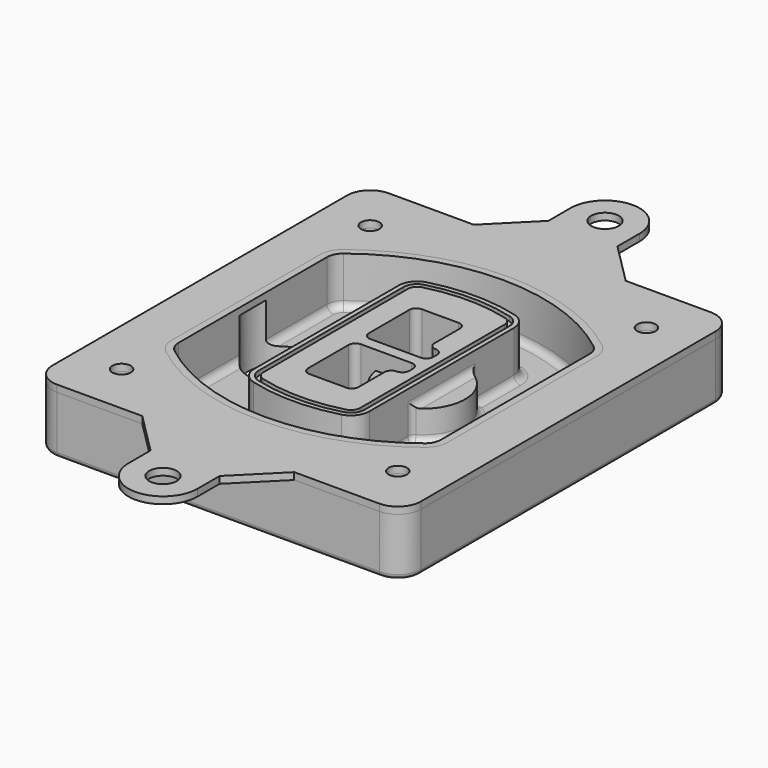
from build123d import *

# Parameters (mm, degrees)
F0_R      = 4
F1_DEPTH  = 25
F2_DEPTH  = 3
F3_DEPTH  = 18
F5_DEPTH  = 21
F6_DEPTH  = 2
F8_DEPTH  = 20
F9_DEPTH  = 16
F10_DEPTH = 25
F7_R      = 6
F7_R_2    = 4
F11_DEPTH = 6
F13_DEPTH = 9
F14_R     = 3
F15_R     = 2
F16_R     = 4
F16_R_2   = 6
F17_DEPTH = 3


with BuildPart() as f1:
    # F0 (on Top) → F1 (new body)
    with BuildSketch(Plane.XY):
        with BuildLine():
            ThreePointArc((-80, -80), (-77.0710678119, -87.0710678119), (-70, -90))
            Line((-70, -90), (70, -90))
            ThreePointArc((70, -90), (77.0710678119, -87.0710678119), (80, -80))
            Line((80, -80), (80, 80))
            ThreePointArc((80, 80), (77.0710678119, 87.0710678119), (70, 90))
            Line((70, 90), (-70, 90))
            ThreePointArc((-70, 90), (-77.0710678119, 87.0710678119), (-80, 80))
            Line((-80, 80), (-80, -80))
        make_face()
        with Locations((-60, -67.5)):
            Circle(F0_R, mode=Mode.SUBTRACT)
        with Locations((60, -67.5)):
            Circle(F0_R, mode=Mode.SUBTRACT)
        with Locations((-60, 67.5)):
            Circle(F0_R, mode=Mode.SUBTRACT)
        with BuildLine():
            ThreePointArc((-64, 40.2934422872), (-62.5820384798, 46.4328484224), (-58.6153846154, 51.3286200352))
            ThreePointArc((-58.6153846154, 51.3286200352), (0, 71.5), (58.6153846154, 51.3286200352))
            ThreePointArc((58.6153846154, 51.3286200352), (62.5820384798, 46.4328484224), (64, 40.2934422872))
            Line((64, 40.2934422872), (64, -40.2934422872))
            ThreePointArc((64, -40.2934422872), (62.5820384798, -46.4328484224), (58.6153846154, -51.3286200352))
            ThreePointArc((58.6153846154, -51.3286200352), (0, -71.5), (-58.6153846154, -51.3286200352))
            ThreePointArc((-58.6153846154, -51.3286200352), (-62.5820384798, -46.4328484224), (-64, -40.2934422872))
            Line((-64, -40.2934422872), (-64, 40.2934422872))
        make_face(mode=Mode.SUBTRACT)
        with Locations((60, 67.5)):
            Circle(F0_R, mode=Mode.SUBTRACT)
        with BuildLine():
            ThreePointArc((58.6153846154, 51.3286200352), (0, 71.5), (-58.6153846154, 51.3286200352))
            ThreePointArc((-58.6153846154, 51.3286200352), (-62.5820384798, 46.4328484224), (-64, 40.2934422872))
            Line((-64, 40.2934422872), (-64, -40.2934422872))
            ThreePointArc((-64, -40.2934422872), (-62.5820384798, -46.4328484224), (-58.6153846154, -51.3286200352))
            ThreePointArc((-58.6153846154, -51.3286200352), (0, -71.5), (58.6153846154, -51.3286200352))
            ThreePointArc((58.6153846154, -51.3286200352), (62.5820384798, -46.4328484224), (64, -40.2934422872))
            Line((64, -40.2934422872), (64, 40.2934422872))
            ThreePointArc((64, 40.2934422872), (62.5820384798, 46.4328484224), (58.6153846154, 51.3286200352))
        make_face()
        with BuildLine():
            Line((-60, -40.2934422872), (-60, 40.2934422872))
            ThreePointArc((-60, 40.2934422872), (-58.9871703427, 44.6787323838), (-56.1538461538, 48.1757121072))
            ThreePointArc((-56.1538461538, 48.1757121072), (0, 67.5), (56.1538461538, 48.1757121072))
            ThreePointArc((56.1538461538, 48.1757121072), (58.9871703427, 44.6787323838), (60, 40.2934422872))
            Line((60, 40.2934422872), (60, -40.2934422872))
            ThreePointArc((60, -40.2934422872), (58.9871703427, -44.6787323838), (56.1538461538, -48.1757121072))
            ThreePointArc((56.1538461538, -48.1757121072), (0, -67.5), (-56.1538461538, -48.1757121072))
            ThreePointArc((-56.1538461538, -48.1757121072), (-58.9871703427, -44.6787323838), (-60, -40.2934422872))
        make_face(mode=Mode.SUBTRACT)
        with BuildLine():
            ThreePointArc((-56.1538461538, 48.1757121072), (-58.9871703427, 44.6787323838), (-60, 40.2934422872))
            Line((-60, 40.2934422872), (-60, -40.2934422872))
            ThreePointArc((-60, -40.2934422872), (-58.9871703427, -44.6787323838), (-56.1538461538, -48.1757121072))
            ThreePointArc((-56.1538461538, -48.1757121072), (0, -67.5), (56.1538461538, -48.1757121072))
            ThreePointArc((56.1538461538, -48.1757121072), (58.9871703427, -44.6787323838), (60, -40.2934422872))
            Line((60, -40.2934422872), (60, 40.2934422872))
            ThreePointArc((60, 40.2934422872), (58.9871703427, 44.6787323838), (56.1538461538, 48.1757121072))
            ThreePointArc((56.1538461538, 48.1757121072), (0, 67.5), (-56.1538461538, 48.1757121072))
        make_face()
        with BuildLine():
            ThreePointArc((54.3076923077, 45.8110311612), (56.2910192399, 43.3631453548), (57, 40.2934422872))
            Line((57, 40.2934422872), (57, -40.2934422872))
            ThreePointArc((57, -40.2934422872), (56.2910192399, -43.3631453548), (54.3076923077, -45.8110311612))
            ThreePointArc((54.3076923077, -45.8110311612), (0, -64.5), (-54.3076923077, -45.8110311612))
            ThreePointArc((-54.3076923077, -45.8110311612), (-56.2910192399, -43.3631453548), (-57, -40.2934422872))
            Line((-57, -40.2934422872), (-57, 40.2934422872))
            ThreePointArc((-57, 40.2934422872), (-56.2910192399, 43.3631453548), (-54.3076923077, 45.8110311612))
            ThreePointArc((-54.3076923077, 45.8110311612), (0, 64.5), (54.3076923077, 45.8110311612))
        make_face(mode=Mode.SUBTRACT)
        with BuildLine():
            Line((57, -40.2934422872), (57, 40.2934422872))
            ThreePointArc((57, 40.2934422872), (56.2910192399, 43.3631453548), (54.3076923077, 45.8110311612))
            ThreePointArc((54.3076923077, 45.8110311612), (0, 64.5), (-54.3076923077, 45.8110311612))
            ThreePointArc((-54.3076923077, 45.8110311612), (-56.2910192399, 43.3631453548), (-57, 40.2934422872))
            Line((-57, 40.2934422872), (-57, -40.2934422872))
            ThreePointArc((-57, -40.2934422872), (-56.2910192399, -43.3631453548), (-54.3076923077, -45.8110311612))
            ThreePointArc((-54.3076923077, -45.8110311612), (0, -64.5), (54.3076923077, -45.8110311612))
            ThreePointArc((54.3076923077, -45.8110311612), (56.2910192399, -43.3631453548), (57, -40.2934422872))
        make_face()
    extrude(amount=-F1_DEPTH)

    # F0 (on Top) → F2 (join)
    with BuildSketch(Plane.XY):
        with BuildLine():
            ThreePointArc((-56.1538461538, 48.1757121072), (-58.9871703427, 44.6787323838), (-60, 40.2934422872))
            Line((-60, 40.2934422872), (-60, -40.2934422872))
            ThreePointArc((-60, -40.2934422872), (-58.9871703427, -44.6787323838), (-56.1538461538, -48.1757121072))
            ThreePointArc((-56.1538461538, -48.1757121072), (0, -67.5), (56.1538461538, -48.1757121072))
            ThreePointArc((56.1538461538, -48.1757121072), (58.9871703427, -44.6787323838), (60, -40.2934422872))
            Line((60, -40.2934422872), (60, 40.2934422872))
            ThreePointArc((60, 40.2934422872), (58.9871703427, 44.6787323838), (56.1538461538, 48.1757121072))
            ThreePointArc((56.1538461538, 48.1757121072), (0, 67.5), (-56.1538461538, 48.1757121072))
        make_face()
        with BuildLine():
            ThreePointArc((54.3076923077, 45.8110311612), (56.2910192399, 43.3631453548), (57, 40.2934422872))
            Line((57, 40.2934422872), (57, -40.2934422872))
            ThreePointArc((57, -40.2934422872), (56.2910192399, -43.3631453548), (54.3076923077, -45.8110311612))
            ThreePointArc((54.3076923077, -45.8110311612), (0, -64.5), (-54.3076923077, -45.8110311612))
            ThreePointArc((-54.3076923077, -45.8110311612), (-56.2910192399, -43.3631453548), (-57, -40.2934422872))
            Line((-57, -40.2934422872), (-57, 40.2934422872))
            ThreePointArc((-57, 40.2934422872), (-56.2910192399, 43.3631453548), (-54.3076923077, 45.8110311612))
            ThreePointArc((-54.3076923077, 45.8110311612), (0, 64.5), (54.3076923077, 45.8110311612))
        make_face(mode=Mode.SUBTRACT)
    extrude(amount=F2_DEPTH)

    # F0 (on Top) → F3 (cut)
    with BuildSketch(Plane.XY):
        with BuildLine():
            Line((57, -40.2934422872), (57, 40.2934422872))
            ThreePointArc((57, 40.2934422872), (56.2910192399, 43.3631453548), (54.3076923077, 45.8110311612))
            ThreePointArc((54.3076923077, 45.8110311612), (0, 64.5), (-54.3076923077, 45.8110311612))
            ThreePointArc((-54.3076923077, 45.8110311612), (-56.2910192399, 43.3631453548), (-57, 40.2934422872))
            Line((-57, 40.2934422872), (-57, -40.2934422872))
            ThreePointArc((-57, -40.2934422872), (-56.2910192399, -43.3631453548), (-54.3076923077, -45.8110311612))
            ThreePointArc((-54.3076923077, -45.8110311612), (0, -64.5), (54.3076923077, -45.8110311612))
            ThreePointArc((54.3076923077, -45.8110311612), (56.2910192399, -43.3631453548), (57, -40.2934422872))
        make_face()
    extrude(amount=-F3_DEPTH, mode=Mode.SUBTRACT)

    # F4 (on face) → F5 (join, through all)
    with BuildSketch(Plane.XY.offset(3)):
        with BuildLine():
            ThreePointArc((-25, -39.2465276821), (-23.3511545998, -44.1109737193), (-19.0842911877, -46.9702398883))
            ThreePointArc((-19.0842911877, -46.9702398883), (0, -49.5), (19.0842911877, -46.9702398883))
            ThreePointArc((19.0842911877, -46.9702398883), (23.3511545998, -44.1109737193), (25, -39.2465276821))
            Line((25, -39.2465276821), (25, 39.2465276821))
            ThreePointArc((25, 39.2465276821), (23.3511545998, 44.1109737193), (19.0842911877, 46.9702398883))
            ThreePointArc((19.0842911877, 46.9702398883), (0, 49.5), (-19.0842911877, 46.9702398883))
            ThreePointArc((-19.0842911877, 46.9702398883), (-23.3511545998, 44.1109737193), (-25, 39.2465276821))
            Line((-25, 39.2465276821), (-25, -39.2465276821))
        make_face()
        with BuildLine():
            ThreePointArc((18.5632183908, 45.0393118368), (21.7633659499, 42.89486221), (23, 39.2465276821))
            Line((23, 39.2465276821), (23, -39.2465276821))
            ThreePointArc((23, -39.2465276821), (21.7633659499, -42.89486221), (18.5632183908, -45.0393118368))
            ThreePointArc((18.5632183908, -45.0393118368), (0, -47.5), (-18.5632183908, -45.0393118368))
            ThreePointArc((-18.5632183908, -45.0393118368), (-21.7633659499, -42.89486221), (-23, -39.2465276821))
            Line((-23, -39.2465276821), (-23, 39.2465276821))
            ThreePointArc((-23, 39.2465276821), (-21.7633659499, 42.89486221), (-18.5632183908, 45.0393118368))
            ThreePointArc((-18.5632183908, 45.0393118368), (0, 47.5), (18.5632183908, 45.0393118368))
        make_face(mode=Mode.SUBTRACT)
        with BuildLine():
            Line((23, -39.2465276821), (23, 39.2465276821))
            ThreePointArc((23, 39.2465276821), (21.7633659499, 42.89486221), (18.5632183908, 45.0393118368))
            ThreePointArc((18.5632183908, 45.0393118368), (0, 47.5), (-18.5632183908, 45.0393118368))
            ThreePointArc((-18.5632183908, 45.0393118368), (-21.7633659499, 42.89486221), (-23, 39.2465276821))
            Line((-23, 39.2465276821), (-23, -39.2465276821))
            ThreePointArc((-23, -39.2465276821), (-21.7633659499, -42.89486221), (-18.5632183908, -45.0393118368))
            ThreePointArc((-18.5632183908, -45.0393118368), (0, -47.5), (18.5632183908, -45.0393118368))
            ThreePointArc((18.5632183908, -45.0393118368), (21.7633659499, -42.89486221), (23, -39.2465276821))
        make_face()
        with BuildLine():
            ThreePointArc((18.0421455939, 43.1083837852), (20.1755772999, 41.6787507007), (21, 39.2465276821))
            Line((21, 39.2465276821), (21, -39.2465276821))
            ThreePointArc((21, -39.2465276821), (20.1755772999, -41.6787507007), (18.0421455939, -43.1083837852))
            ThreePointArc((18.0421455939, -43.1083837852), (0, -45.5), (-18.0421455939, -43.1083837852))
            ThreePointArc((-18.0421455939, -43.1083837852), (-20.1755772999, -41.6787507007), (-21, -39.2465276821))
            Line((-21, -39.2465276821), (-21, 39.2465276821))
            ThreePointArc((-21, 39.2465276821), (-20.1755772999, 41.6787507007), (-18.0421455939, 43.1083837852))
            ThreePointArc((-18.0421455939, 43.1083837852), (0, 45.5), (18.0421455939, 43.1083837852))
        make_face(mode=Mode.SUBTRACT)
        with BuildLine():
            Line((21, -39.2465276821), (21, 39.2465276821))
            ThreePointArc((21, 39.2465276821), (20.1755772999, 41.6787507007), (18.0421455939, 43.1083837852))
            ThreePointArc((18.0421455939, 43.1083837852), (0, 45.5), (-18.0421455939, 43.1083837852))
            ThreePointArc((-18.0421455939, 43.1083837852), (-20.1755772999, 41.6787507007), (-21, 39.2465276821))
            Line((-21, 39.2465276821), (-21, -39.2465276821))
            ThreePointArc((-21, -39.2465276821), (-20.1755772999, -41.6787507007), (-18.0421455939, -43.1083837852))
            ThreePointArc((-18.0421455939, -43.1083837852), (0, -45.5), (18.0421455939, -43.1083837852))
            ThreePointArc((18.0421455939, -43.1083837852), (20.1755772999, -41.6787507007), (21, -39.2465276821))
        make_face()
        with BuildLine():
            Line((-8, -2.5), (14, -2.5))
            ThreePointArc((14, -2.5), (16.1213203436, -3.3786796564), (17, -5.5))
            Line((17, -5.5), (17, -7.5))
            ThreePointArc((17, -7.5), (16.1213203436, -9.6213203436), (14, -10.5))
            ThreePointArc((14, -10.5), (11.8786796564, -11.3786796564), (11, -13.5))
            Line((11, -13.5), (11, -27.5))
            ThreePointArc((11, -27.5), (10.1213203436, -29.6213203436), (8, -30.5))
            Line((8, -30.5), (-8, -30.5))
            ThreePointArc((-8, -30.5), (-10.1213203436, -29.6213203436), (-11, -27.5))
            Line((-11, -27.5), (-11, -5.5))
            ThreePointArc((-11, -5.5), (-10.1213203436, -3.3786796564), (-8, -2.5))
        make_face(mode=Mode.SUBTRACT)
        with BuildLine():
            ThreePointArc((-8, 2.5), (-10.1213203436, 3.3786796564), (-11, 5.5))
            Line((-11, 5.5), (-11, 27.5))
            ThreePointArc((-11, 27.5), (-10.1213203436, 29.6213203436), (-8, 30.5))
            Line((-8, 30.5), (8, 30.5))
            ThreePointArc((8, 30.5), (10.1213203436, 29.6213203436), (11, 27.5))
            Line((11, 27.5), (11, 13.5))
            ThreePointArc((11, 13.5), (11.8786796564, 11.3786796564), (14, 10.5))
            ThreePointArc((14, 10.5), (16.1213203436, 9.6213203436), (17, 7.5))
            Line((17, 7.5), (17, 5.5))
            ThreePointArc((17, 5.5), (16.1213203436, 3.3786796564), (14, 2.5))
            Line((14, 2.5), (-8, 2.5))
        make_face(mode=Mode.SUBTRACT)
    extrude(amount=-F5_DEPTH)

    # F4 (on face) → F6 (cut)
    with BuildSketch(Plane.XY.offset(3)):
        with BuildLine():
            Line((23, -39.2465276821), (23, 39.2465276821))
            ThreePointArc((23, 39.2465276821), (21.7633659499, 42.89486221), (18.5632183908, 45.0393118368))
            ThreePointArc((18.5632183908, 45.0393118368), (0, 47.5), (-18.5632183908, 45.0393118368))
            ThreePointArc((-18.5632183908, 45.0393118368), (-21.7633659499, 42.89486221), (-23, 39.2465276821))
            Line((-23, 39.2465276821), (-23, -39.2465276821))
            ThreePointArc((-23, -39.2465276821), (-21.7633659499, -42.89486221), (-18.5632183908, -45.0393118368))
            ThreePointArc((-18.5632183908, -45.0393118368), (0, -47.5), (18.5632183908, -45.0393118368))
            ThreePointArc((18.5632183908, -45.0393118368), (21.7633659499, -42.89486221), (23, -39.2465276821))
        make_face()
        with BuildLine():
            ThreePointArc((18.0421455939, 43.1083837852), (20.1755772999, 41.6787507007), (21, 39.2465276821))
            Line((21, 39.2465276821), (21, -39.2465276821))
            ThreePointArc((21, -39.2465276821), (20.1755772999, -41.6787507007), (18.0421455939, -43.1083837852))
            ThreePointArc((18.0421455939, -43.1083837852), (0, -45.5), (-18.0421455939, -43.1083837852))
            ThreePointArc((-18.0421455939, -43.1083837852), (-20.1755772999, -41.6787507007), (-21, -39.2465276821))
            Line((-21, -39.2465276821), (-21, 39.2465276821))
            ThreePointArc((-21, 39.2465276821), (-20.1755772999, 41.6787507007), (-18.0421455939, 43.1083837852))
            ThreePointArc((-18.0421455939, 43.1083837852), (0, 45.5), (18.0421455939, 43.1083837852))
        make_face(mode=Mode.SUBTRACT)
    extrude(amount=-F6_DEPTH, mode=Mode.SUBTRACT)

    # F7 (on face) → F8 (join)
    with BuildSketch(Plane(origin=(0, 0, -25), x_dir=(1, 0, 0), z_dir=(0, 0, -1))):
        with BuildLine():
            ThreePointArc((3.28842436, 0), (16.7567035675, 13.4682792075), (30.224982775, 0))
            Line((30.224982775, 0), (35.224982775, 0))
            ThreePointArc((35.224982775, 0), (16.7567035675, 18.4682792075), (-1.71157564, 0))
            Line((-1.71157564, 0), (3.28842436, 0))
        make_face()
        with BuildLine():
            Line((3.28842436, 0), (30.224982775, 0))
            ThreePointArc((30.224982775, 0), (16.7567035675, 13.4682792075), (3.28842436, 0))
        make_face()
        with BuildLine():
            ThreePointArc((3.28842436, 0), (16.7567035675, -13.4682792075), (30.224982775, 0))
            Line((30.224982775, 0), (3.28842436, 0))
        make_face()
        with BuildLine():
            Line((35.224982775, 0), (30.224982775, 0))
            ThreePointArc((30.224982775, 0), (16.7567035675, -13.4682792075), (3.28842436, 0))
            Line((3.28842436, 0), (-1.71157564, 0))
            ThreePointArc((-1.71157564, 0), (16.7567035675, -18.4682792075), (35.224982775, 0))
        make_face()
    extrude(amount=-F8_DEPTH)

    # F7 (on face) → F9 (cut)
    with BuildSketch(Plane(origin=(0, 0, -25), x_dir=(1, 0, 0), z_dir=(0, 0, -1))):
        with BuildLine():
            Line((3.28842436, 0), (30.224982775, 0))
            ThreePointArc((30.224982775, 0), (16.7567035675, 13.4682792075), (3.28842436, 0))
        make_face()
        with BuildLine():
            ThreePointArc((3.28842436, 0), (16.7567035675, -13.4682792075), (30.224982775, 0))
            Line((30.224982775, 0), (3.28842436, 0))
        make_face()
    extrude(amount=-F9_DEPTH, mode=Mode.SUBTRACT)

    # F7 (on face) → F10 (cut)
    with BuildSketch(Plane(origin=(0, 0, -25), x_dir=(1, 0, 0), z_dir=(0, 0, -1))):
        with BuildLine():
            Line((-59.0318229325, 0), (-32.0952645175, 0))
            ThreePointArc((-32.0952645175, 0), (-45.563543725, 13.4682792075), (-59.0318229325, 0))
        make_face()
        with BuildLine():
            ThreePointArc((-59.0318229325, 0), (-45.563543725, -13.4682792075), (-32.0952645175, 0))
            Line((-32.0952645175, 0), (-59.0318229325, 0))
        make_face()
    extrude(amount=-F10_DEPTH, mode=Mode.SUBTRACT)

    # F7 (on face) → F11 (cut)
    with BuildSketch(Plane(origin=(0, 0, -25), x_dir=(1, 0, 0), z_dir=(0, 0, -1))):
        with Locations((60, -67.5)):
            Circle(F7_R)
        with Locations((60, -67.5)):
            Circle(F7_R_2, mode=Mode.SUBTRACT)
        with Locations((60, -67.5)):
            Circle(F7_R)
        with Locations((60, -67.5)):
            Circle(F7_R_2, mode=Mode.SUBTRACT)
        with Locations((-60, -67.5)):
            Circle(F7_R)
        with Locations((-60, -67.5)):
            Circle(F7_R_2, mode=Mode.SUBTRACT)
        with Locations((-60, -67.5)):
            Circle(F7_R)
        with Locations((-60, -67.5)):
            Circle(F7_R_2, mode=Mode.SUBTRACT)
        with Locations((-60, 67.5)):
            Circle(F7_R)
        with Locations((-60, 67.5)):
            Circle(F7_R_2, mode=Mode.SUBTRACT)
        with Locations((-60, 67.5)):
            Circle(F7_R)
        with Locations((-60, 67.5)):
            Circle(F7_R_2, mode=Mode.SUBTRACT)
        with Locations((60, 67.5)):
            Circle(F7_R)
        with Locations((60, 67.5)):
            Circle(F7_R_2, mode=Mode.SUBTRACT)
        with Locations((60, 67.5)):
            Circle(F7_R)
        with Locations((60, 67.5)):
            Circle(F7_R_2, mode=Mode.SUBTRACT)
    extrude(amount=-F11_DEPTH, mode=Mode.SUBTRACT)

    # F12 (on face) → F13 (cut, through all)
    with BuildSketch(Plane(origin=(0, 0, -9), x_dir=(1, 0, 0), z_dir=(0, 0, -1))):
        with BuildLine():
            Line((11, 13.5), (11, 17.5481537753))
            ThreePointArc((11, 17.5481537753), (2.5696536419, 11.8239143813), (-1.5415842455, 2.5))
            Line((-1.5415842455, 2.5), (3.5224848595, 2.5))
            ThreePointArc((3.5224848595, 2.5), (6.1857188154, 8.3455872281), (11.2536447004, 12.2927168648))
            ThreePointArc((11.2536447004, 12.2927168648), (11.0640958889, 12.8831798879), (11, 13.5))
        make_face()
        with BuildLine():
            ThreePointArc((11.2536447004, -12.2927168648), (6.1857188154, -8.3455872281), (3.5224848595, -2.5))
            Line((3.5224848595, -2.5), (-1.5415842455, -2.5))
            ThreePointArc((-1.5415842455, -2.5), (2.5696536419, -11.8239143813), (11, -17.5481537753))
            Line((11, -17.5481537753), (11, -13.5))
            ThreePointArc((11, -13.5), (11.0640958889, -12.8831798879), (11.2536447004, -12.2927168648))
        make_face()
        with BuildLine():
            ThreePointArc((11.2536447004, 12.2927168648), (6.1857188154, 8.3455872281), (3.5224848595, 2.5))
            Line((3.5224848595, 2.5), (14, 2.5))
            ThreePointArc((14, 2.5), (16.1213203436, 3.3786796564), (17, 5.5))
            Line((17, 5.5), (17, 7.5))
            ThreePointArc((17, 7.5), (16.1213203436, 9.6213203436), (14, 10.5))
            ThreePointArc((14, 10.5), (12.3601599782, 10.9878446101), (11.2536447004, 12.2927168648))
        make_face()
        with BuildLine():
            Line((14, -2.5), (3.5224848595, -2.5))
            ThreePointArc((3.5224848595, -2.5), (6.1857188154, -8.3455872281), (11.2536447004, -12.2927168648))
            ThreePointArc((11.2536447004, -12.2927168648), (12.3601599782, -10.9878446101), (14, -10.5))
            ThreePointArc((14, -10.5), (16.1213203436, -9.6213203436), (17, -7.5))
            Line((17, -7.5), (17, -5.5))
            ThreePointArc((17, -5.5), (16.1213203436, -3.3786796564), (14, -2.5))
        make_face()
    extrude(amount=F13_DEPTH, mode=Mode.SUBTRACT)

    # F14
    f14_edges = [f1.edges().sort_by_distance(p)[0] for p in [
        (-57, -23.703476, -18),
        (-57, 23.703476, -18),
        (25, 0, -5),
        (25, 16.526506, -11.5),
        (25, -16.526506, -11.5),
        (25, -27.886517, -18),
        (35.224983, 0, -18),
    ]]
    fillet(f14_edges, radius=F14_R)

    # F15
    f15_edges = [f1.edges().sort_by_distance(p)[0] for p in [
        (0, -90, -25),
    ]]
    fillet(f15_edges, radius=F15_R)


with BuildPart() as f17:
    # F16 (on face) → F17 (new body, through all)
    with BuildSketch(Plane.XY):
        with BuildLine():
            Line((33, 90), (-33, 90))
            Line((-33, 90), (-70, 90))
            ThreePointArc((-70, 90), (-77.0710678119, 87.0710678119), (-80, 80))
            Line((-80, 80), (-80, -80))
            ThreePointArc((-80, -80), (-77.0710678119, -87.0710678119), (-70, -90))
            Line((-70, -90), (-33, -90))
            Line((-33, -90), (33, -90))
            Line((33, -90), (70, -90))
            ThreePointArc((70, -90), (77.0710678119, -87.0710678119), (80, -80))
            Line((80, -80), (80, 80))
            ThreePointArc((80, 80), (77.0710678119, 87.0710678119), (70, 90))
            Line((70, 90), (33, 90))
        make_face()
        with Locations((-60, -67.5)):
            Circle(F16_R, mode=Mode.SUBTRACT)
        with Locations((60, -67.5)):
            Circle(F16_R, mode=Mode.SUBTRACT)
        with Locations((-60, 67.5)):
            Circle(F16_R, mode=Mode.SUBTRACT)
        with BuildLine():
            ThreePointArc((-60, 40.2934422872), (-58.9871703427, 44.6787323838), (-56.1538461538, 48.1757121072))
            ThreePointArc((-56.1538461538, 48.1757121072), (0, 67.5), (56.1538461538, 48.1757121072))
            ThreePointArc((56.1538461538, 48.1757121072), (58.9871703427, 44.6787323838), (60, 40.2934422872))
            Line((60, 40.2934422872), (60, -40.2934422872))
            ThreePointArc((60, -40.2934422872), (58.9871703427, -44.6787323838), (56.1538461538, -48.1757121072))
            ThreePointArc((56.1538461538, -48.1757121072), (0, -67.5), (-56.1538461538, -48.1757121072))
            ThreePointArc((-56.1538461538, -48.1757121072), (-58.9871703427, -44.6787323838), (-60, -40.2934422872))
            Line((-60, -40.2934422872), (-60, 40.2934422872))
        make_face(mode=Mode.SUBTRACT)
        with Locations((60, 67.5)):
            Circle(F16_R, mode=Mode.SUBTRACT)
        with BuildLine():
            Line((-15, 108), (-33, 90))
            Line((-33, 90), (33, 90))
            Line((33, 90), (15, 108))
            Line((15, 108), (15, 120))
            ThreePointArc((15, 120), (0, 135), (-15, 120))
            Line((-15, 120), (-15, 108))
        make_face()
        with Locations((0, 120)):
            Circle(F16_R_2, mode=Mode.SUBTRACT)
        with BuildLine():
            Line((33, -90), (-33, -90))
            Line((-33, -90), (-15, -108))
            Line((-15, -108), (-15, -120))
            ThreePointArc((-15, -120), (0, -135), (15, -120))
            Line((15, -120), (15, -108))
            Line((15, -108), (33, -90))
        make_face()
        with Locations((0, -120)):
            Circle(F16_R_2, mode=Mode.SUBTRACT)
    extrude(amount=F17_DEPTH)


solid = Compound([f1.part, f17.part])
